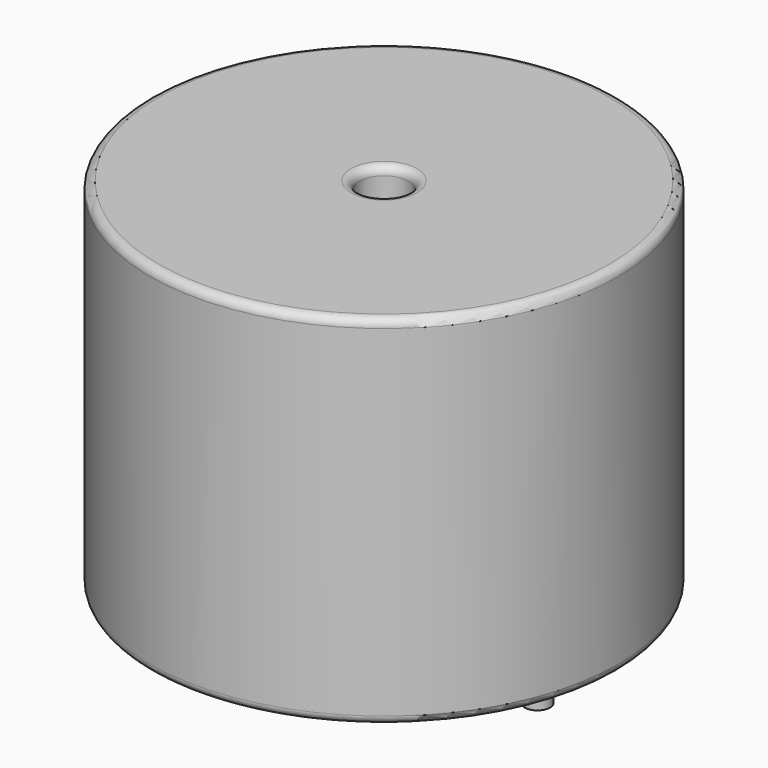
from build123d import *

# Parameters (mm, degrees)
SKETCH001_R       = 0.75
PAD001_DEPTH      = 10.67
PAD001_DEPTH_BACK = 3.5
SKETCH_R          = 13.95
SKETCH_R_2        = 1.46
PAD_DEPTH         = 21.34
FILLET_R          = 0.5


with BuildPart() as pad001:
    # Sketch001 → Pad001 (new body, two sides)
    with BuildSketch(Plane.XY.offset(0.5)) as pad001_sk:
        Circle(SKETCH001_R)
        with Locations((18.29, 0)):
            Circle(SKETCH001_R)
    extrude(amount=PAD001_DEPTH)
    extrude(pad001_sk.sketch, amount=-PAD001_DEPTH_BACK)


with BuildPart() as obj1:
    # Sketch → Pad (new body)
    with BuildSketch(Plane.XY.offset(0.1)):
        with Locations((9.145, 0)):
            Circle(SKETCH_R)
        with Locations((9.145, 0)):
            Circle(SKETCH_R_2, mode=Mode.SUBTRACT)
    extrude(amount=PAD_DEPTH)

    # Fillet
    fillet_edges = [obj1.edges().sort_by_distance(p)[0] for p in [
        (7.685, 0, 21.44),
        (-4.805, 0, 21.44),
        (-4.805, 0, 0.1),
    ]]
    fillet(fillet_edges, radius=FILLET_R)

    # obj1: union Pad001
    add(pad001.part)


solid = obj1.part
